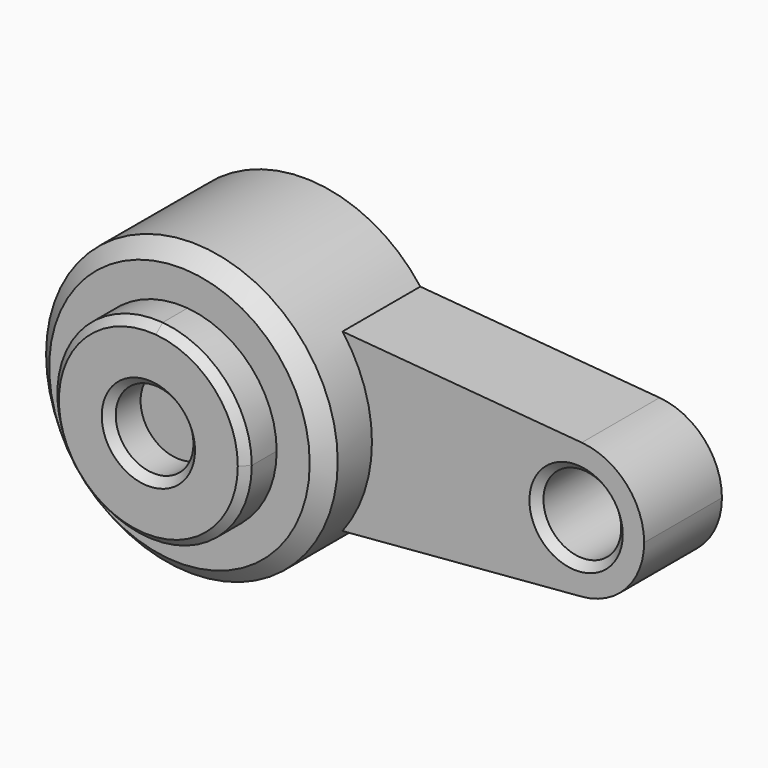
from build123d import *

# Parameters (mm, degrees)
F0_R     = 10
F1_DEPTH = 25
F2_DEPTH = 50
F3_SIZE  = 2
F4_R     = 37.5
F5_DEPTH = 40
F6_SIZE  = 4


with BuildPart() as f1:
    # F0 (on Front) → F1 (new body)
    with BuildSketch(Plane.XZ):
        with BuildLine():
            ThreePointArc((2.083333, -24.913043), (18.399502, -16.92508), (25, 0))
            ThreePointArc((25, 0), (18.399502, 16.92508), (2.083333, 24.913043))
            ThreePointArc((2.083333, 24.913043), (-25, 0), (2.083333, -24.913043))
        make_face()
        Circle(F0_R, mode=Mode.SUBTRACT)
        with BuildLine():
            ThreePointArc((2.083333, 24.913043), (18.399502, 16.92508), (25, 0))
            ThreePointArc((25, 0), (18.399502, -16.92508), (2.083333, -24.913043))
            Line((2.083333, -24.913043), (91.458333, -17.43913))
            ThreePointArc((91.458333, -17.43913), (72.5, 0), (91.458333, 17.43913))
            Line((91.458333, 17.43913), (2.083333, 24.913043))
        make_face()
        with BuildLine():
            ThreePointArc((107.5, 0), (102.879651, 11.847556), (91.458333, 17.43913))
            ThreePointArc((91.458333, 17.43913), (72.5, 0), (91.458333, -17.43913))
            ThreePointArc((91.458333, -17.43913), (102.879651, -11.847556), (107.5, 0))
        make_face()
        with Locations((90, 0)):
            Circle(F0_R, mode=Mode.SUBTRACT)
    extrude(amount=F1_DEPTH)

    # F0 (on Front) → F2 (join)
    with BuildSketch(Plane.XZ):
        with BuildLine():
            ThreePointArc((2.083333, -24.913043), (18.399502, -16.92508), (25, 0))
            ThreePointArc((25, 0), (18.399502, 16.92508), (2.083333, 24.913043))
            ThreePointArc((2.083333, 24.913043), (-25, 0), (2.083333, -24.913043))
        make_face()
        Circle(F0_R, mode=Mode.SUBTRACT)
    extrude(amount=F2_DEPTH)

    # F3
    f3_edges = [f1.edges().sort_by_distance(p)[0] for p in [
        (-2.083333, -50, 24.913043),
        (-10, -50, 0),
        (80, -25, 0),
    ]]
    chamfer(f3_edges, length=F3_SIZE)

    # F4 (on Front) → F5 (join)
    with BuildSketch(Plane.XZ):
        Circle(F4_R)
    extrude(amount=F5_DEPTH)

    # F6
    f6_edges = [f1.edges().sort_by_distance(p)[0] for p in [
        (-37.5, -40, 0),
    ]]
    chamfer(f6_edges, length=F6_SIZE)


solid = f1.part
